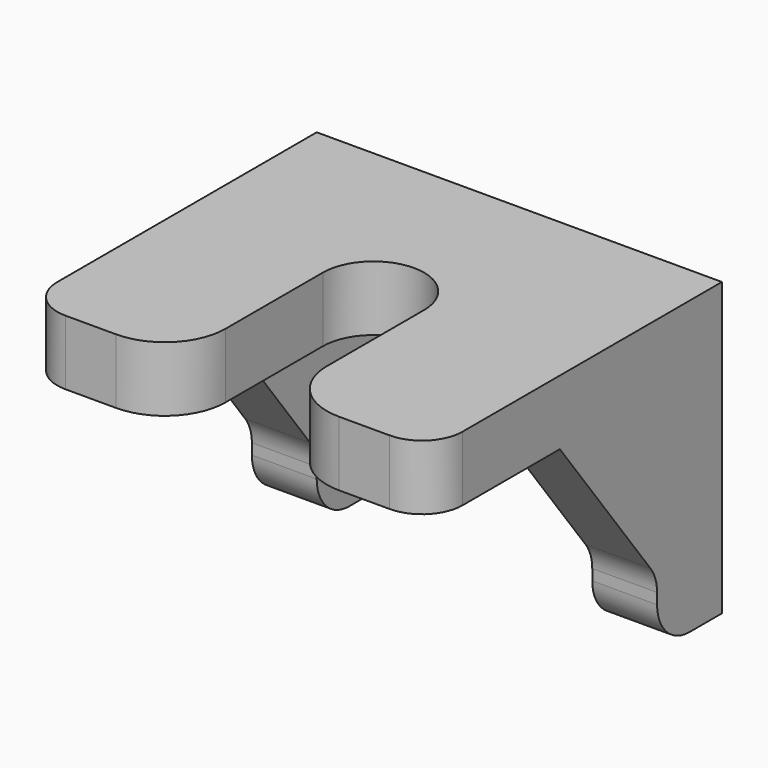
from build123d import *

# Parameters (mm, degrees)
PAD008_DEPTH            = 1.6
PAD009_DEPTH            = 1.6
LINEARPATTERN003_COUNT  = 2
LINEARPATTERN003_PITCH  = 8.4
FILLET012_R             = 1
FILLET013_R             = 1
FILLET014_R             = 1
FILLET015_R             = 1.5
BODY004_PLACEMENT_ANGLE = 90


with BuildPart() as part:
    # Sketch010 → Pad008 (new body)
    with BuildSketch(Plane.XY):
        with BuildLine():
            Line((-4.5, 5), (4.5, 5))
            Line((4.5, 5), (4.5, 1.25))
            Line((0, 1.25), (4.5, 1.25))
            ThreePointArc((0, 1.25), (-1.25, 0), (0, -1.25))
            Line((4.5, -1.25), (0, -1.25))
            Line((4.5, -1.25), (4.5, -5))
            Line((4.5, -5), (-4.5, -5))
            Line((-4.5, -5), (-4.5, 5))
        make_face()
    extrude(amount=PAD008_DEPTH)

    # Sketch011 (on DatumPlane) → Pad009 (join)
    with BuildSketch(Plane.XZ.offset(5)):
        Polygon((-4.5, 0), (-4.5, -5.6), (-2.5, -5.6), (-2.5, -4), (0.5, 0), align=None)
    pad009 = extrude(amount=-PAD009_DEPTH)

    # LinearPattern003: Pad009 ×2
    with Locations(*[(0, i * LINEARPATTERN003_PITCH, 0) for i in range(1, LINEARPATTERN003_COUNT)]):
        add(pad009)

    # Fillet012
    fillet012_edges = [part.edges().sort_by_distance(p)[0] for p in [
        (-2.5, -4.2, -5.6),
        (-2.5, 4.2, -5.6),
    ]]
    fillet(fillet012_edges, radius=FILLET012_R)

    # Fillet013
    fillet013_edges = [part.edges().sort_by_distance(p)[0] for p in [
        (-2.5, -4.2, -4),
        (-2.5, 4.2, -4),
    ]]
    fillet(fillet013_edges, radius=FILLET013_R)

    # Fillet014
    fillet014_edges = [part.edges().sort_by_distance(p)[0] for p in [
        (4.5, -5, 0.8),
        (4.5, 5, 0.8),
    ]]
    fillet(fillet014_edges, radius=FILLET014_R)

    # Fillet015
    fillet015_edges = [part.edges().sort_by_distance(p)[0] for p in [
        (4.5, -1.25, 0.8),
        (4.5, 1.25, 0.8),
    ]]
    fillet(fillet015_edges, radius=FILLET015_R)


with BuildPart() as part_1:
    # Body004 placement: moved
    add(part.part.moved(Location((-22.4, -32.5, 10.4))).rotate(Axis((-22.4, -32.5, 10.4), (0, 0, -1)), BODY004_PLACEMENT_ANGLE))


solid = part_1.part
